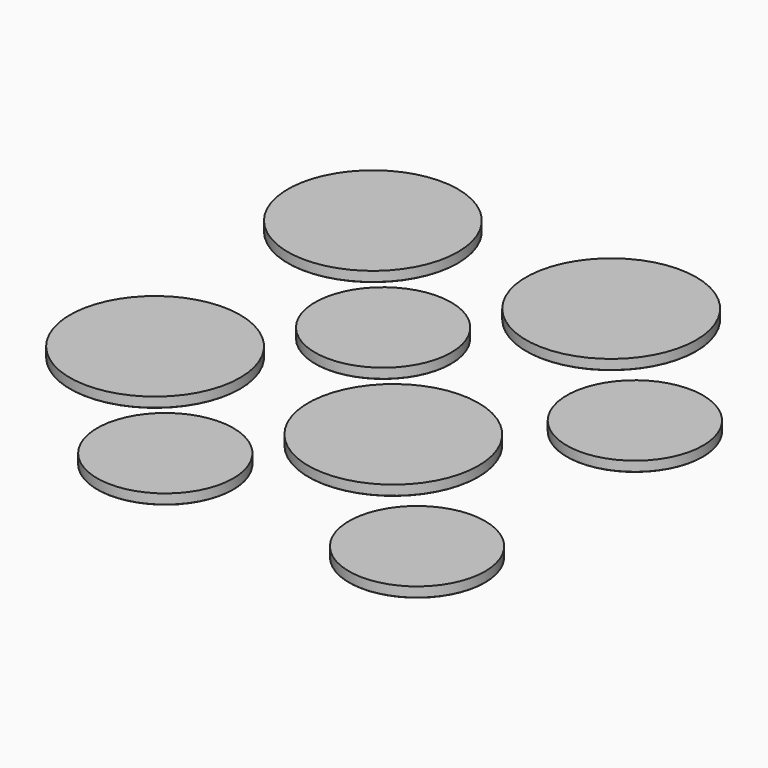
from build123d import *

# Parameters (mm, degrees)
F0_R     = 25
F0_R_2   = 20
F1_DEPTH = 3
F2_R     = 0.2


with BuildPart() as f1:
    # F0 (on Top) → F1 (new body)
    with BuildSketch(Plane.XY):
        with Locations((-65.347192, 80)):
            Circle(F0_R)
        with Locations((4.652808, 80)):
            Circle(F0_R)
        with Locations((43.619838, 40)):
            Circle(F0_R_2)
        with Locations((-30.347192, 40)):
            Circle(F0_R_2)
        with Locations((-65.347192, 0)):
            Circle(F0_R)
        with Locations((4.652808, 0)):
            Circle(F0_R)
        with Locations((-30.347192, -40)):
            Circle(F0_R_2)
        with Locations((43.619838, -40)):
            Circle(F0_R_2)
    extrude(amount=F1_DEPTH)

    # F2
    f2_edges = [f1.edges().sort_by_distance(p)[0] for p in [
        (-90.347192, 80, 0),
        (-90.347192, 0, 0),
        (-50.347192, -40, 0),
        (-50.347192, 40, 0),
        (-20.347192, 0, 0),
        (23.619838, -40, 0),
        (-20.347192, 80, 0),
        (23.619838, 40, 0),
    ]]
    fillet(f2_edges, radius=F2_R)


solid = f1.part
